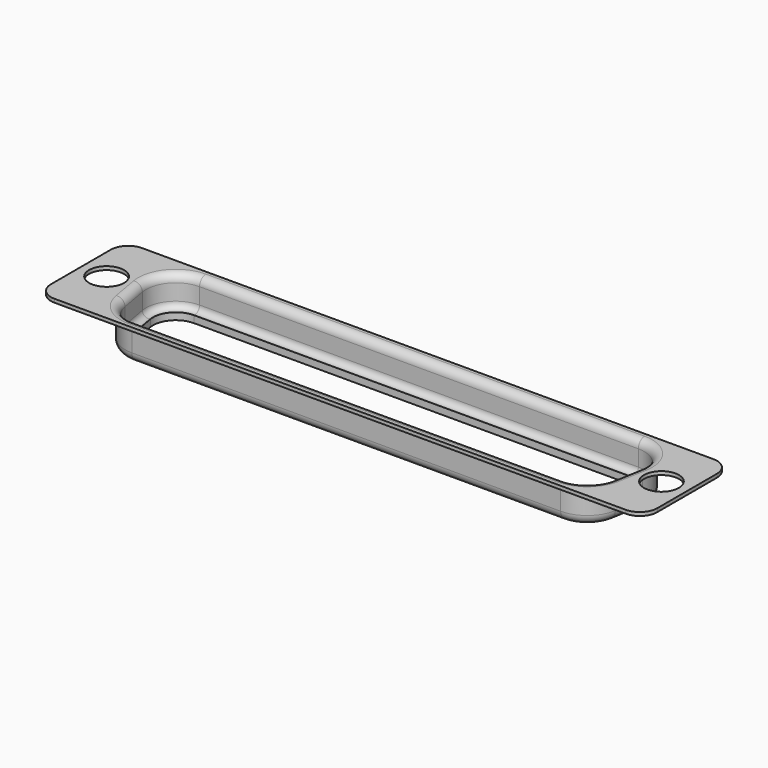
from build123d import *

# Parameters (mm, degrees)
PAD002_DEPTH            = 0.4
SKETCH005_R             = 2
POCKET002_DEPTH         = 5
PAD003_DEPTH            = 3.85
POCKET003_DEPTH         = 4.251
POCKET004_DEPTH         = 3.45
FILLET003_R             = 0.7
FILLET004_R             = 0.5
FILLET005_R             = 1.1
FILLET006_R             = 0.9
BODY001_PLACEMENT_ANGLE = 180


with BuildPart() as part:
    # Sketch004 → Pad002 (new body)
    with BuildSketch(Plane.XY):
        with BuildLine():
            Line((-32.7, 6.275), (32.7, 6.275))
            ThreePointArc((34.7, 4.275), (34.114214, 5.689214), (32.7, 6.275))
            Line((34.7, 4.275), (34.7, -4.275))
            ThreePointArc((32.7, -6.275), (34.114214, -5.689214), (34.7, -4.275))
            Line((32.7, -6.275), (-32.7, -6.275))
            ThreePointArc((-34.7, -4.275), (-34.114214, -5.689214), (-32.7, -6.275))
            Line((-34.7, -4.275), (-34.7, 4.275))
            ThreePointArc((-32.7, 6.275), (-34.114214, 5.689214), (-34.7, 4.275))
        make_face()
    extrude(amount=PAD002_DEPTH)

    # Sketch005 (on Face10 of Pad002) → Pocket002 (cut)
    with BuildSketch(Plane.XY.offset(0.4)):
        with Locations((-31.755, 0)):
            Circle(SKETCH005_R)
        with Locations((31.755, 0)):
            Circle(SKETCH005_R)
    extrude(amount=-POCKET002_DEPTH, mode=Mode.SUBTRACT)

    # Sketch006 (on Face5 of Pocket002) → Pad003 (join)
    with BuildSketch(Plane.XY.offset(0.4)):
        with BuildLine():
            Line((-25.11, 5.4), (25.11, 5.4))
            ThreePointArc((28.852119, 0.939282), (28.021248, 4.04226), (25.11, 5.4))
            Line((28.852119, 0.939282), (28.287119, -2.260718))
            ThreePointArc((24.545, -5.4), (26.98726, -4.511248), (28.287119, -2.260718))
            Line((24.545, -5.4), (-24.545, -5.4))
            ThreePointArc((-28.287119, -2.260718), (-26.98726, -4.511248), (-24.545, -5.4))
            Line((-28.287119, -2.260718), (-28.852119, 0.939282))
            ThreePointArc((-25.11, 5.4), (-28.021248, 4.04226), (-28.852119, 0.939282))
        make_face()
    extrude(amount=PAD003_DEPTH)

    # Sketch007 (on Face21 of Pad003) → Pocket003 (cut, through all)
    with BuildSketch(Plane.XY.offset(4.25)):
        with BuildLine():
            Line((-25.11, 4.2), (25.11, 4.2))
            ThreePointArc((27.670397, 1.14793), (27.101906, 3.27102), (25.11, 4.2))
            Line((27.670397, 1.14793), (27.105397, -2.05207))
            ThreePointArc((24.545, -4.2), (26.21602, -3.591906), (27.105397, -2.05207))
            Line((24.545, -4.2), (-24.545, -4.2))
            ThreePointArc((-27.105397, -2.05207), (-26.21602, -3.591906), (-24.545, -4.2))
            Line((-27.105397, -2.05207), (-27.670397, 1.14793))
            ThreePointArc((-25.11, 4.2), (-27.101906, 3.27102), (-27.670397, 1.14793))
        make_face()
    extrude(amount=-POCKET003_DEPTH, mode=Mode.SUBTRACT)

    # Sketch008 (on Face4 of Pocket003) → Pocket004 (cut)
    with BuildSketch(Plane(origin=(0, 0, 0), x_dir=(1, 0, 0), z_dir=(0, 0, -1))):
        with BuildLine():
            Line((-24.545, 5), (24.545, 5))
            ThreePointArc((27.893211, 2.191169), (26.73018, 4.204801), (24.545, 5))
            Line((27.893211, 2.191169), (28.458211, -1.008831))
            ThreePointArc((25.11, -5), (27.714801, -3.78518), (28.458211, -1.008831))
            Line((25.11, -5), (-25.11, -5))
            ThreePointArc((-28.458211, -1.008831), (-27.714801, -3.78518), (-25.11, -5))
            Line((-28.458211, -1.008831), (-27.893211, 2.191169))
            ThreePointArc((-24.545, 5), (-26.73018, 4.204801), (-27.893211, 2.191169))
        make_face()
    extrude(amount=-POCKET004_DEPTH, mode=Mode.SUBTRACT)

    # Fillet003
    fillet003_edges = [part.edges().sort_by_distance(p)[0] for p in [
        (27.714801, 3.78518, 3.45),
    ]]
    fillet(fillet003_edges, radius=FILLET003_R)

    # Fillet004
    fillet004_edges = [part.edges().sort_by_distance(p)[0] for p in [
        (28.021248, 4.04226, 0.4),
    ]]
    fillet(fillet004_edges, radius=FILLET004_R)

    # Fillet005
    fillet005_edges = [part.edges().sort_by_distance(p)[0] for p in [
        (28.021248, 4.04226, 4.25),
    ]]
    fillet(fillet005_edges, radius=FILLET005_R)

    # Fillet006
    fillet006_edges = [part.edges().sort_by_distance(p)[0] for p in [
        (0, 5, 0),
    ]]
    fillet(fillet006_edges, radius=FILLET006_R)


with BuildPart() as part_1:
    # Body001 placement: moved
    add(part.part.rotate(Axis((0, 0, 0), (0, 1, 0)), BODY001_PLACEMENT_ANGLE))


solid = part_1.part
